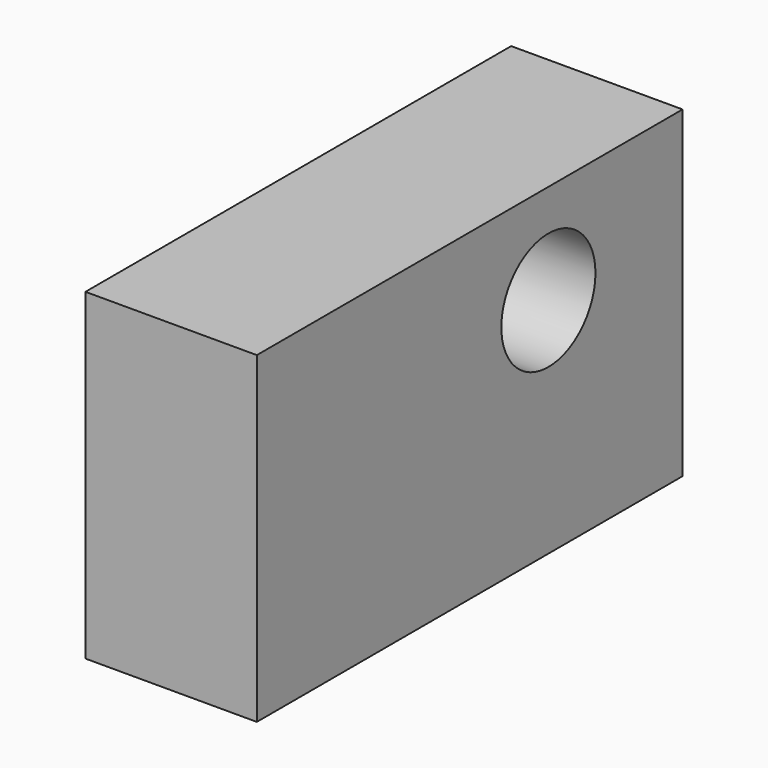
from build123d import *

# Parameters (mm, degrees)
F0_W     = 93.13342
F0_H     = 56.517004
F1_DEPTH = 30
F2_R     = 10.29753
F3_DEPTH = 30


with BuildPart() as f1:
    # F0 (on Right) → F1 (new body)
    with BuildSketch(Plane.YZ):
        with Locations((31.60917, 0)):
            Rectangle(F0_W, F0_H)
    extrude(amount=F1_DEPTH)

    # F2 (on face) → F3 (cut)
    with BuildSketch(Plane.YZ.offset(30)):
        with Locations((48.824161, 10.789674)):
            Circle(F2_R)
    extrude(amount=-F3_DEPTH, mode=Mode.SUBTRACT)


solid = f1.part
